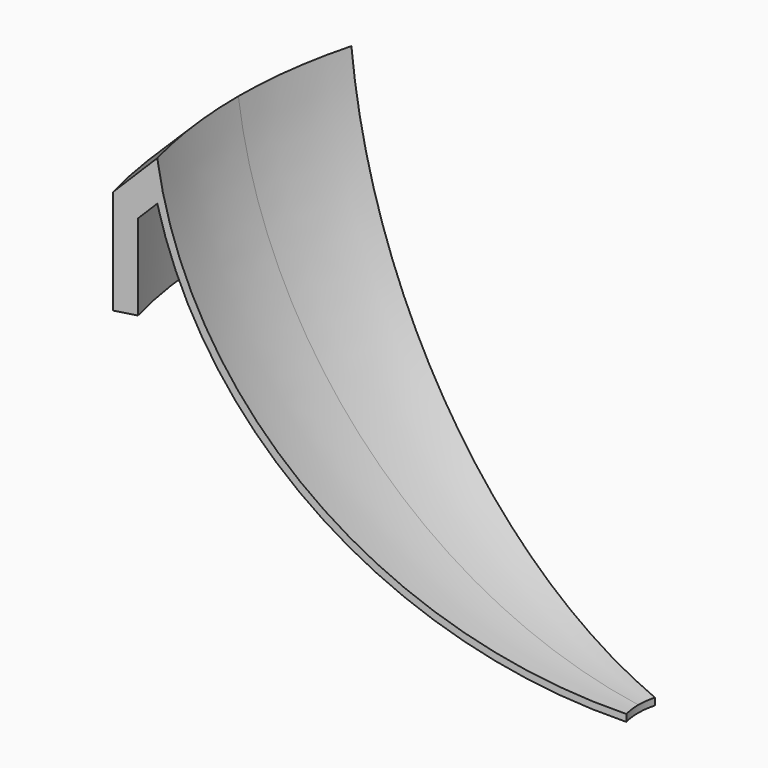
from build123d import *

# Parameters (mm, degrees)
F1_ANGLE = 30


with BuildPart() as f1:
    # F0 (on Front) → F1 (revolve, symmetric)
    with BuildSketch(Plane.XZ) as f1_sk:
        with BuildLine():
            ThreePointArc((32.006004, -22.18296), (12.573001, -12.326296), (3, 7.248))
            Line((3, 7.248), (0.271143, 4.519142))
            Line((0.271143, 4.519142), (0.271143, -3.053563))
            Line((0.271143, -3.053563), (1.601774, -3.053563))
            Line((1.601774, -3.053563), (1.804178, -3.053563))
            Line((1.804178, -3.053563), (1.804178, 3.149904))
            Line((1.804178, 3.149904), (3, 4.345534))
            ThreePointArc((3, 4.345534), (13.27576, -13.706999), (32.006004, -22.688268))
            Line((32.006004, -22.688268), (32.006004, -22.18296))
        make_face()
    revolve(axis=Axis((37, 0, -38.976204), (0, 0, 1)), revolution_arc=F1_ANGLE / 2)
    revolve(f1_sk.sketch, axis=Axis((37, 0, -38.976204), (0, 0, -1)), revolution_arc=F1_ANGLE / 2)


solid = f1.part
